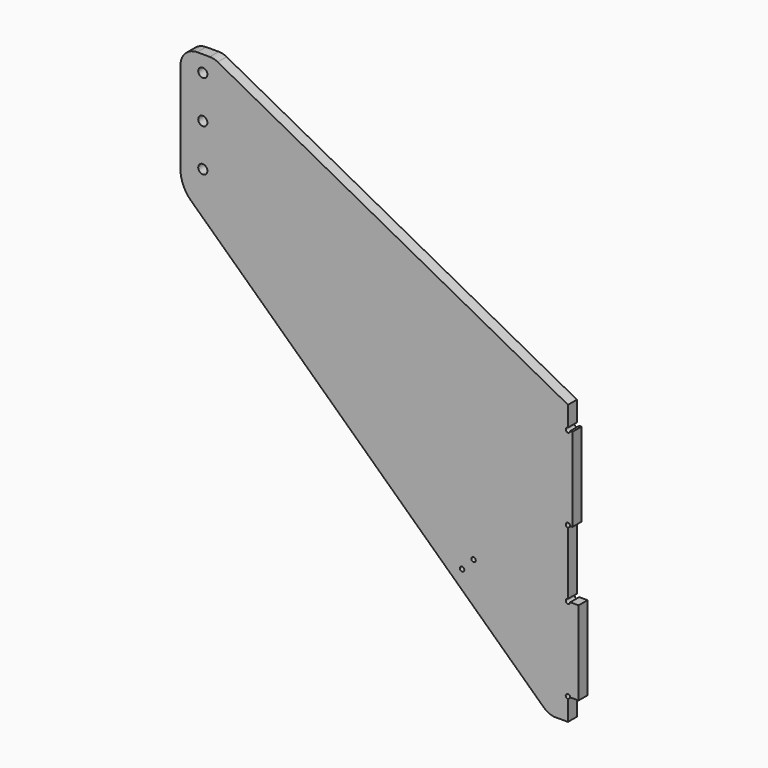
from build123d import *

# Parameters (mm, degrees)
F0_R     = 2
F0_R_2   = 4.1
F1_DEPTH = 10
F2_R     = 30
F3_R     = 15


with BuildPart() as f1:
    # F0 (on Front) → F1 (new body)
    with BuildSketch(Plane.XZ):
        with BuildLine():
            Line((0, 310), (330, 0))
            Line((330, 0), (347, 0))
            Line((347, 0), (347, 18))
            ThreePointArc((347, 18), (345.585786, 21.414214), (349, 20))
            Line((349, 20), (356.5, 20))
            Line((356.5, 20), (356.5, 95))
            Line((356.5, 95), (349, 95))
            ThreePointArc((349, 95), (345.585786, 93.585786), (347, 97))
            Line((347, 97), (347, 153))
            ThreePointArc((347, 153), (345.585786, 156.414214), (349, 155))
            Line((349, 155), (351, 155))
            Line((351, 155), (351, 230))
            Line((351, 230), (349, 230))
            ThreePointArc((349, 230), (345.585786, 228.585786), (347, 232))
            Line((347, 232), (347, 250))
            Line((347, 250), (30, 420))
            Line((30, 420), (0, 420))
            Line((0, 420), (0, 310))
        make_face()
        with Locations((252.158545, 89.588128)):
            Circle(F0_R, mode=Mode.SUBTRACT)
        with Locations((262.428676, 100.520849)):
            Circle(F0_R, mode=Mode.SUBTRACT)
        with Locations((20, 329.4)):
            Circle(F0_R_2, mode=Mode.SUBTRACT)
        with Locations((20, 367.4)):
            Circle(F0_R_2, mode=Mode.SUBTRACT)
        with Locations((20, 405.4)):
            Circle(F0_R_2, mode=Mode.SUBTRACT)
    extrude(amount=F1_DEPTH)

    # F2
    f2_edges = [f1.edges().sort_by_distance(p)[0] for p in [
        (0, -5, 310),
    ]]
    fillet(f2_edges, radius=F2_R)

    # F3
    f3_edges = [f1.edges().sort_by_distance(p)[0] for p in [
        (0, -5, 420),
        (30, -5, 420),
        (330, -5, 0),
    ]]
    fillet(f3_edges, radius=F3_R)


solid = f1.part
